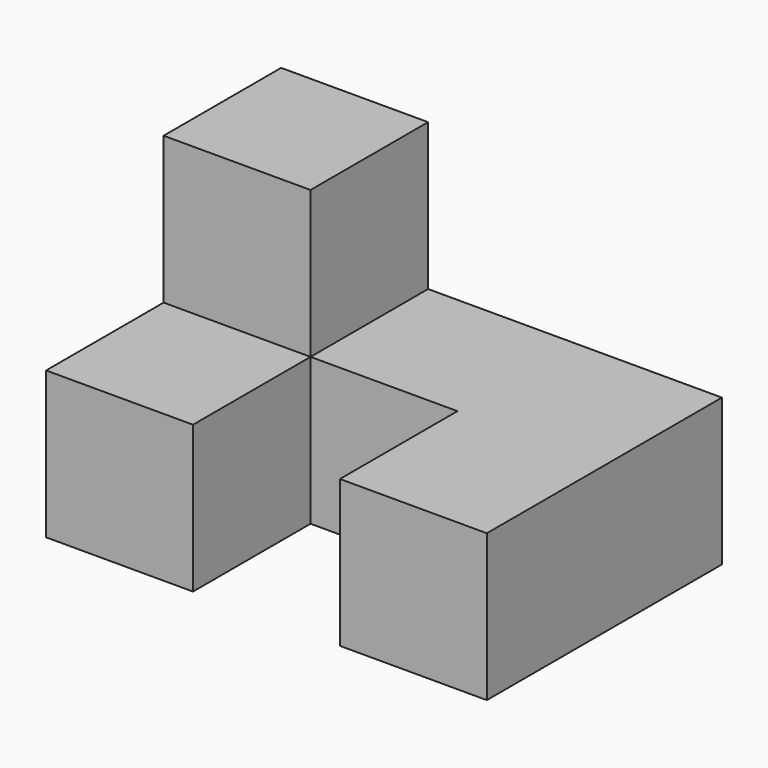
from build123d import *

# Parameters (mm, degrees)
F0_W     = 19.05
F0_H     = 19.05
F1_DEPTH = 19.05
F2_W     = 19.05
F2_H     = 19.05
F3_DEPTH = 38.1
F5_ANGLE = 180


with BuildPart() as f1:
    # F0 (on Top) → F1 (new body)
    with BuildSketch(Plane.XY):
        with Locations((-19.05, 9.525)):
            Rectangle(F0_W, F0_H)
        Polygon((-9.525, 0), (-28.575, 0), (-28.575, -19.05), (28.575, -19.05), (28.575, 0), (9.525, 0), align=None)
        with Locations((19.05, 9.525)):
            Rectangle(F0_W, F0_H)
    extrude(amount=F1_DEPTH)

    # F2 (on Top) → F3 (join)
    with BuildSketch(Plane.XY):
        with Locations((19.05, -9.525)):
            Rectangle(F2_W, F2_H)
    extrude(amount=F3_DEPTH)


with BuildPart() as f1_1:
    # F5: moved
    add(f1.part.rotate(Axis((-28.575, -19.05, 9.525), (0, 0, -1)), F5_ANGLE))


solid = f1_1.part
